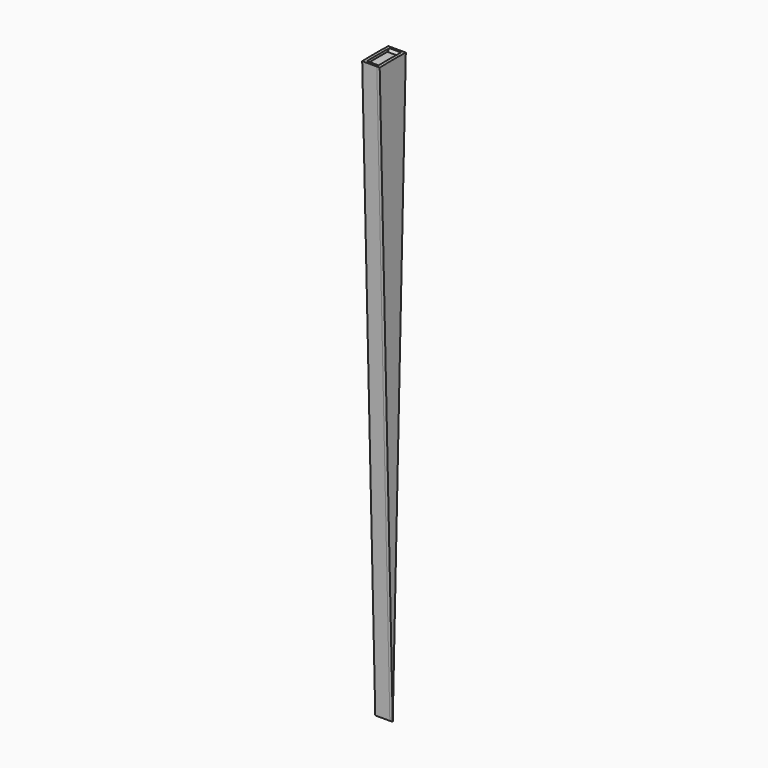
from build123d import *

# Parameters (mm, degrees)
F1_DEPTH = 50
F3_DEPTH = 25


with BuildPart() as f1:
    # F0 (on Right) → F1 (new body, symmetric)
    with BuildSketch(Plane.YZ):
        with BuildLine():
            ThreePointArc((99.5933601328, 4979.0040331996), (49.7991700041, 4979.751002075), (0, 4980))
            ThreePointArc((0, 4980), (-49.7991700041, 4979.751002075), (-99.5933601328, 4979.0040331996))
            Line((-99.5933601328, 4979.0040331996), (-119.9487038483, 4998.5610237793))
            ThreePointArc((-119.9487038483, 4998.5610237793), (-129.9489639222, 4998.3110414194), (-139.9487038483, 4998.0410522815))
            Line((-139.9487038483, 4998.0410522815), (0, 0))
            Line((0, 0), (139.9487038483, 4998.0410522815))
            ThreePointArc((139.9487038483, 4998.0410522815), (129.9489639222, 4998.3110414194), (119.9487038483, 4998.5610237793))
            Line((119.9487038483, 4998.5610237793), (99.5933601328, 4979.0040331996))
        make_face()
    extrude(amount=F1_DEPTH, both=True)

    # F2 (on face) → F3 (join)
    with BuildSketch(Plane.YZ.offset(50)):
        with BuildLine():
            Line((0, 0), (139.9487038483, 4998.0410522815))
            ThreePointArc((139.9487038483, 4998.0410522815), (0, 5000), (-139.9487038483, 4998.0410522815))
            Line((-139.9487038483, 4998.0410522815), (0, 0))
        make_face()
    extrude(amount=F3_DEPTH)


with BuildPart() as f4_1:
    # F4: instance of F1
    add(f1.part.mirror(Plane.YZ))


solid = Compound([f1.part, f4_1.part])
